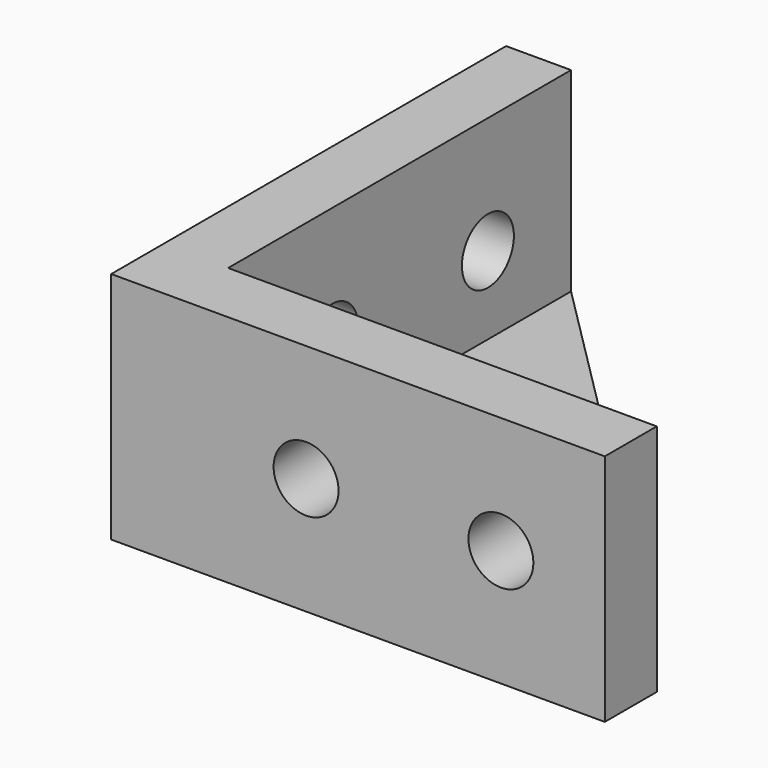
from build123d import *

# Parameters (mm, degrees)
PAD_DEPTH         = 9
SKETCH001_W       = 37.346859
SKETCH001_H       = 35.838272
POCKET_DEPTH      = 6
POCKET_DEPTH_BACK = 100
SKETCH002_R       = 2.5
POCKET001_DEPTH   = 38.001
SKETCH003_R       = 2.5
POCKET002_DEPTH   = 38.001


with BuildPart() as part:
    # Sketch → Pad (new body, symmetric)
    with BuildSketch(Plane.XY):
        Polygon((0, 0), (0, 38), (5, 38), (38, 5), (38, 0), align=None)
    extrude(amount=PAD_DEPTH, both=True)

    # Sketch001 → Pocket (cut, two sides)
    with BuildSketch(Plane.XY) as pocket_sk:
        with Locations((23.673429, 22.919136)):
            Rectangle(SKETCH001_W, SKETCH001_H)
    extrude(amount=-POCKET_DEPTH, mode=Mode.SUBTRACT)
    extrude(pocket_sk.sketch, amount=POCKET_DEPTH_BACK, mode=Mode.SUBTRACT)

    # Sketch002 (on Face2 of Pocket) → Pocket001 (cut, through all)
    with BuildSketch(Plane.XZ):
        with Locations((15, 0)):
            Circle(SKETCH002_R)
        with Locations((30, 0)):
            Circle(SKETCH002_R)
    extrude(amount=-POCKET001_DEPTH, mode=Mode.SUBTRACT)

    # Sketch003 (on Face1 of Pocket001) → Pocket002 (cut, through all)
    with BuildSketch(Plane(origin=(0, 0, 0), x_dir=(0, -1, 0), z_dir=(-1, 0, 0))):
        with Locations((-30, 0)):
            Circle(SKETCH003_R)
        with Locations((-15, 0)):
            Circle(SKETCH003_R)
    extrude(amount=-POCKET002_DEPTH, mode=Mode.SUBTRACT)


solid = part.part
